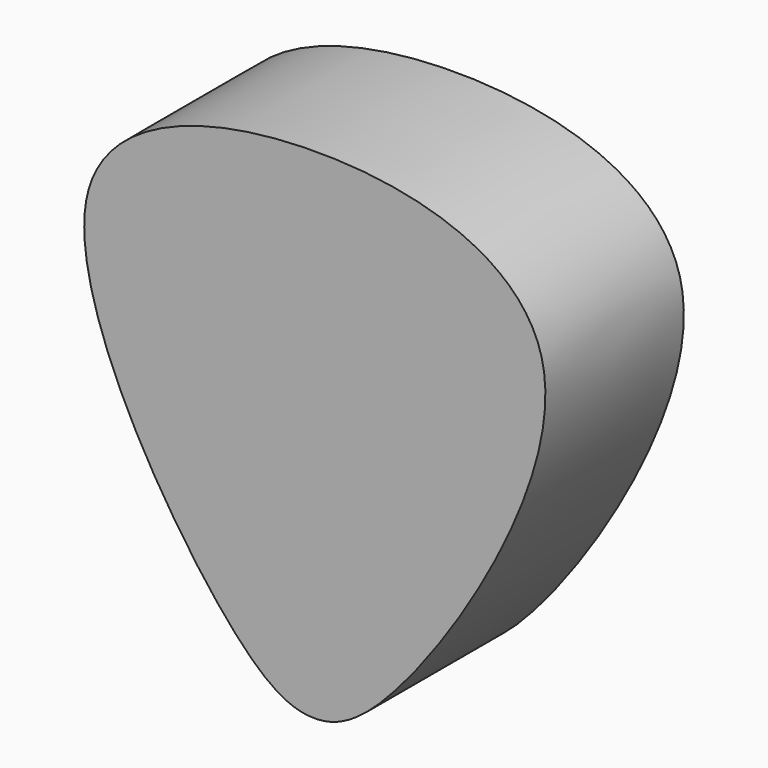
from build123d import *

# Parameters (mm, degrees)
F1_DEPTH = 12.7


with BuildPart() as f1:
    # F0 (on Front) → F1 (new body)
    with BuildSketch(Plane.XZ):
        with BuildLine():
            add(Edge.make_bspline(
                [(-5.6386152282, 3.5970474128), (-3.2801060883, 0.9647505803), (-0.0441469203, -0.8226220698), (6.6637431855, 2.2292929549), (25.1140224135, 31.7449443729), (-0.0534841084, 38.9654073756), (-24.4111384794, 31.3294639941), (-10.3762400714, 8.8846397554), (-5.6386152282, 3.5970474128)],
                knots=[0, 0, 0, 0, 0.1067480509, 0.2118810319, 0.4290371718, 0.6079313288, 0.7855712283, 1, 1, 1, 1], degree=3))
        make_face()
    extrude(amount=F1_DEPTH)


solid = f1.part
